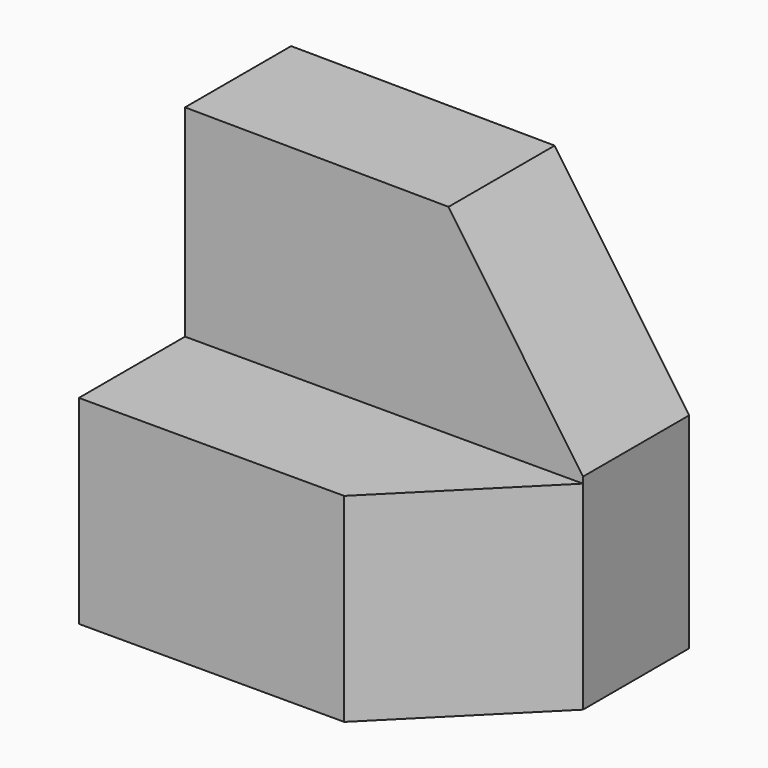
from build123d import *

# Parameters (mm, degrees)
F1_DEPTH = 25.4
F3_DEPTH = 38.100021
F5_DEPTH = 25.401
F7_DEPTH = 19.051


with BuildPart() as f1:
    # F0 (on Front) → F1 (new body)
    with BuildSketch(Plane.XZ):
        Polygon((38.099021, 38.1), (0, 38.373113), (0, 0), (38.099021, 0), align=None)
    extrude(amount=F1_DEPTH)

    # F2 (on Right) → F3 (cut, through all)
    with BuildSketch(Plane.YZ):
        Polygon((-12.7, 19.05), (-12.7, 38.488368), (-25.474755, 38.488368), (-25.453678, 19.05), align=None)
    extrude(amount=F3_DEPTH, mode=Mode.SUBTRACT)

    # F4 (on Front) → F5 (cut, through all)
    with BuildSketch(Plane.XZ):
        Polygon((38.132016, 38.228069), (25.06916, 38.420167), (38.132016, 19.594286), align=None)
    extrude(amount=F5_DEPTH, mode=Mode.SUBTRACT)

    # F6 (on face) → F7 (cut, through all)
    with BuildSketch(Plane.XY.offset(19.05)):
        Polygon((38.099021, -25.4), (38.099021, -12.7), (25.399021, -25.4), align=None)
    extrude(amount=-F7_DEPTH, mode=Mode.SUBTRACT)


solid = f1.part
